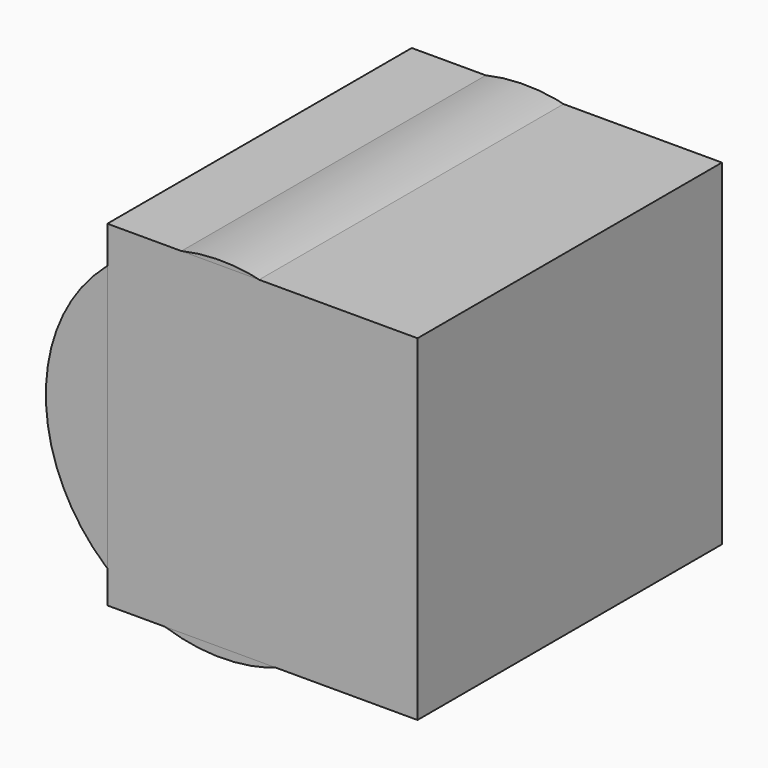
from build123d import *

# Parameters (mm, degrees)
F1_R     = 29.1798211312
F2_DEPTH = 63.5
F0_W     = 51.7663508654
F0_H     = 56.089984253


with BuildPart() as f2:
    # F1 (on face) → F2 (new body)
    with BuildSketch(Plane.XZ):
        Circle(F1_R)
    extrude(amount=F2_DEPTH)


with BuildPart() as f2b:
    # F0 (on Front) → F2, piece 2 (new body)
    with BuildSketch(Plane.XZ):
        with Locations((6.964083761, 0.3854064271)):
            Rectangle(F0_W, F0_H)
    extrude(amount=F2_DEPTH)


solid = Compound([f2.part, f2b.part])
